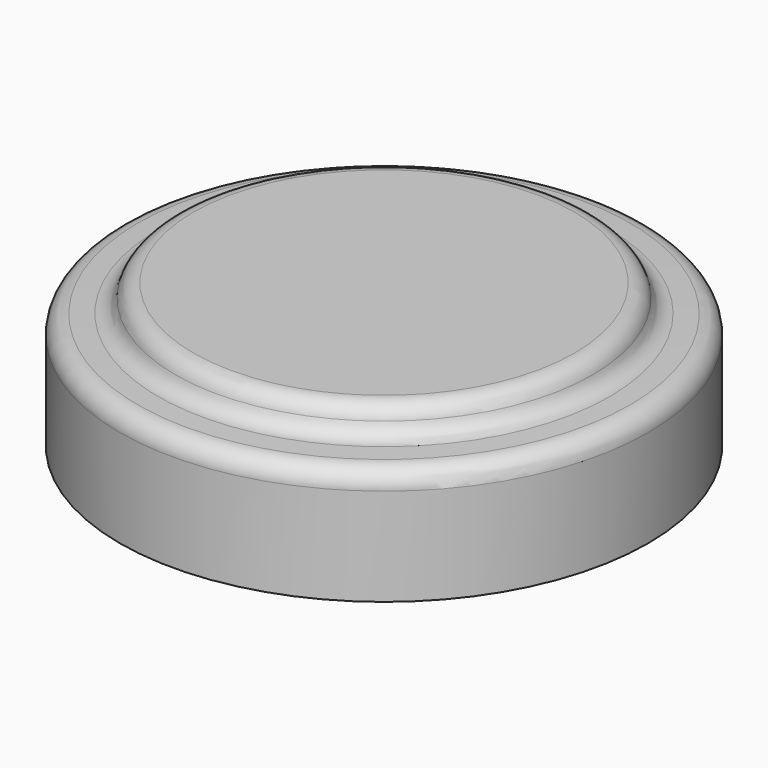
from build123d import *


with BuildPart() as f1:
    # F0 (on Front) → F1 (revolve)
    with BuildSketch(Plane.XZ):
        with BuildLine():
            Line((0, 25.350947), (0, 0))
            Line((0, 0), (0, -4.13963))
            Line((0, -4.13963), (54.233268, -4.13963))
            Line((54.233268, -4.13963), (54.233268, 15.87638))
            ThreePointArc((54.233268, 15.87638), (53.160671, 18.526423), (50.546798, 19.684377))
            Line((50.546798, 19.684377), (46.35951, 19.820212))
            ThreePointArc((46.35951, 19.820212), (44.138408, 20.625078), (42.818762, 22.584578))
            ThreePointArc((42.818762, 22.584578), (41.450118, 24.581698), (39.154484, 25.350947))
            Line((39.154484, 25.350947), (0, 25.350947))
        make_face()
    revolve(axis=Axis((0, 0, 12.675473), (0, 0, 1)))


solid = f1.part
